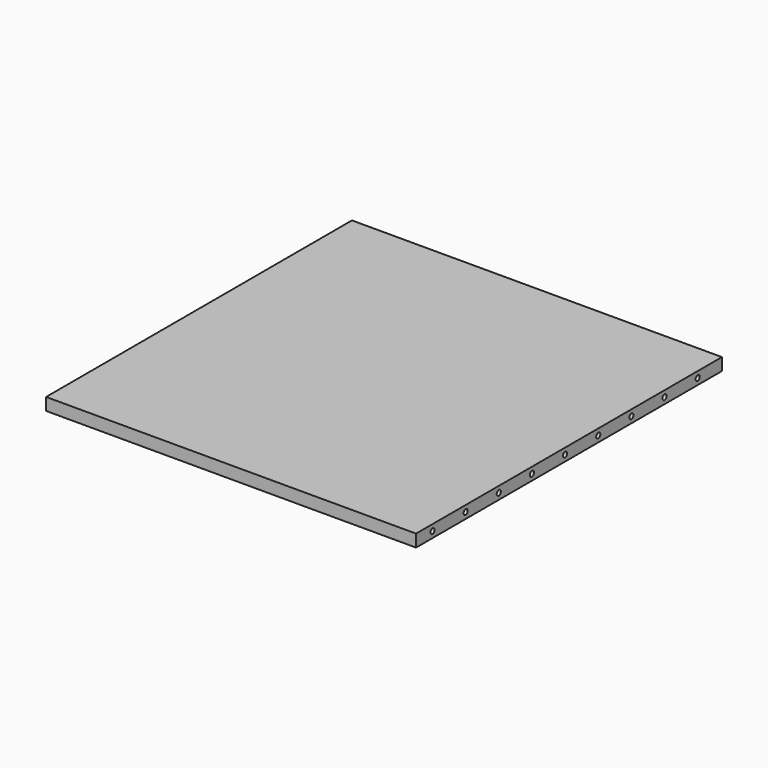
from build123d import *

# Parameters (mm, degrees)
F0_W     = 571.5
F0_H     = 590.55
F1_DEPTH = 19.05
F3_D     = 8
F3_DEPTH = 12.7
F3_TIP   = 2.4034424761
F5_D     = 8
F5_DEPTH = 12.7
F5_TIP   = 2.4034424761
F6_R     = 4
F7_DEPTH = 12.7
F8_D     = 8
F8_DEPTH = 12.7
F8_TIP   = 2.4034424761


with BuildPart() as f1:
    # F0 (on Top) → F1 (new body)
    with BuildSketch(Plane.XY):
        with Locations((-22.4150059079, 7.9759175807)):
            Rectangle(F0_W, F0_H)
    extrude(amount=F1_DEPTH)

    # F3
    with Locations(Plane.YZ.offset(263.3349940921)):
        with Locations((-255.5490824193, 9.525), (-191.5490824193, 9.525), (-127.5490824193, 9.525), (-63.5490824193, 9.525), (0.4509175807, 9.525), (64.4509175807, 9.525), (128.4509175807, 9.525), (192.4509175807, 9.525), (256.4509175807, 9.525)):
            Hole(F3_D / 2, depth=F3_DEPTH)
            with Locations((0, 0, -(F3_DEPTH + F3_TIP / 2))):  # 118° drill point
                Cone(0, F3_D / 2, F3_TIP, mode=Mode.SUBTRACT)

    # F5
    with Locations(Plane(origin=(-308.1650059079, 0, 0), x_dir=(0, -1, 0), z_dir=(-1, 0, 0))):
        with Locations((255.5490824193, 9.525), (191.5490824193, 9.525), (127.5490824193, 9.525), (63.5490824193, 9.525), (-64.4509175807, 9.525), (-0.4509175807, 9.525), (-128.4509175807, 9.525), (-192.4509175807, 9.525), (-256.4509175807, 9.525)):
            Hole(F5_D / 2, depth=F5_DEPTH)
            with Locations((0, 0, -(F5_DEPTH + F5_TIP / 2))):  # 118° drill point
                Cone(0, F5_D / 2, F5_TIP, mode=Mode.SUBTRACT)

    # F6 (on face) → F7 (join)
    with BuildSketch(Plane(origin=(0, 303.2509175807, 0), x_dir=(-1, 0, 0), z_dir=(0, 1, 0))):
        with Locations((-233.5852440921, 9.525)):
            Circle(F6_R)
        with Locations((-169.5852440921, 9.525)):
            Circle(F6_R)
        with Locations((-105.5852440921, 9.525)):
            Circle(F6_R)
        with Locations((-41.5852440921, 9.525)):
            Circle(F6_R)
        with Locations((22.4147559079, 9.525)):
            Circle(F6_R)
        with Locations((86.4147559079, 9.525)):
            Circle(F6_R)
        with Locations((150.4147559079, 9.525)):
            Circle(F6_R)
        with Locations((214.4147559079, 9.525)):
            Circle(F6_R)
        with Locations((278.4147559079, 9.525)):
            Circle(F6_R)
    extrude(amount=-F7_DEPTH)

    # F8
    with Locations(Plane(origin=(0, 303.2509175807, 0), x_dir=(-1, 0, 0), z_dir=(0, 1, 0))):
        with Locations((-233.5852440921, 9.525), (-169.5852440921, 9.525), (-105.5852440921, 9.525), (-41.5852440921, 9.525), (22.4147559079, 9.525), (86.4147559079, 9.525), (150.4147559079, 9.525), (214.4147559079, 9.525), (278.4147559079, 9.525)):
            Hole(F8_D / 2, depth=F8_DEPTH)
            with Locations((0, 0, -(F8_DEPTH + F8_TIP / 2))):  # 118° drill point
                Cone(0, F8_D / 2, F8_TIP, mode=Mode.SUBTRACT)


solid = f1.part
